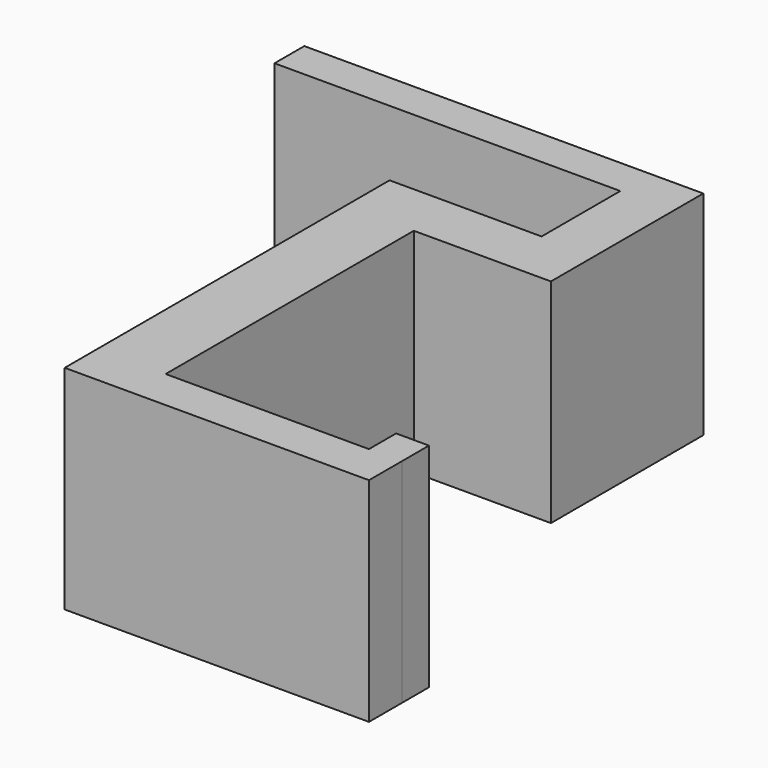
from build123d import *

# Parameters (mm, degrees)
F0_W     = 6.181949
F0_H     = 6.3788
F1_DEPTH = 39.99992


with BuildPart() as f1:
    # F0 (on Top) → F1 (new body)
    with BuildSketch(Plane.XY):
        Polygon((0, 0), (0, -18.500001), (10.000005, -18.500001), (10.000005, -12.737495), (10.000005, 7.000011), (-65.000124, 7.000011), (-65.000124, 0), align=None)
        Polygon((10.000005, -18.500001), (0, -18.500001), (-15.774082, -18.500001), (-15.774082, -28.800748), (10.000005, -28.800748), align=None)
        Polygon((-15.774082, -28.800748), (-15.774082, -18.500001), (-28.575, -18.500001), (-28.575, -94.825782), (28.621282, -94.825782), (28.621282, -87.11236), (22.439333, -87.11236), (-15.774082, -87.11236), align=None)
        with Locations((25.530307, -83.92296)):
            Rectangle(F0_W, F0_H)
    extrude(amount=F1_DEPTH)


solid = f1.part
